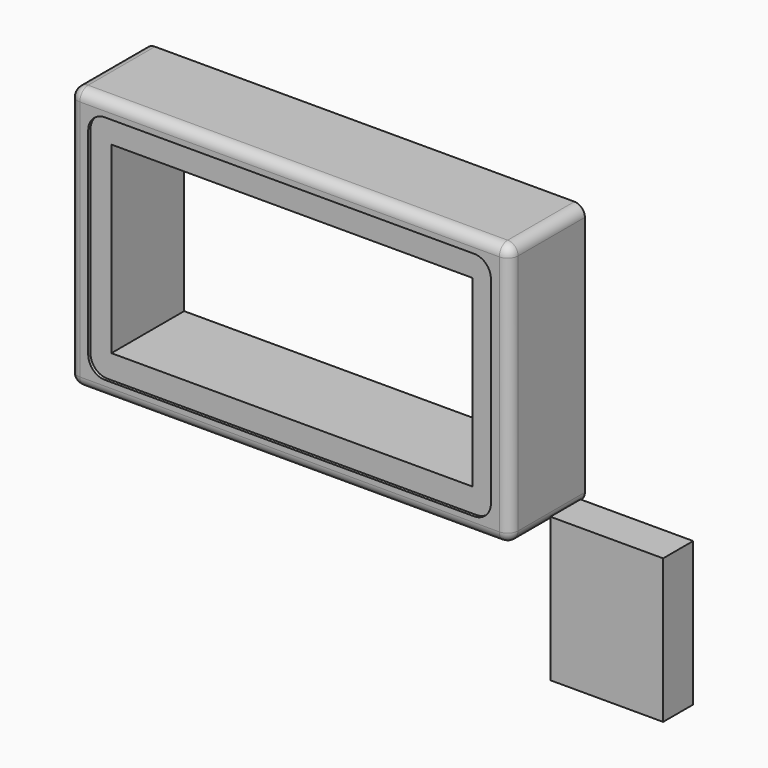
from build123d import *

# Parameters (mm, degrees)
F0_W     = 211
F0_H     = 126
F0_W_2   = 173
F0_H_2   = 88
F1_DEPTH = 45
F2_DEPTH = 1.4
F3_R     = 5
F4_W     = 54
F4_H     = 69
F5_DEPTH = 18


with BuildPart() as f1:
    # F0 (on Front) → F1 (new body)
    with BuildSketch(Plane.XZ):
        with Locations((50.718681, 37.646487)):
            Rectangle(F0_W, F0_H)
        with BuildLine():
            ThreePointArc((-45.761319, 85.026487), (-43.418173, 90.683341), (-37.761319, 93.026487))
            Line((-37.761319, 93.026487), (139.198681, 93.026487))
            ThreePointArc((139.198681, 93.026487), (144.855535, 90.683341), (147.198681, 85.026487))
            Line((147.198681, 85.026487), (147.198681, -9.733513))
            ThreePointArc((147.198681, -9.733513), (144.855535, -15.390367), (139.198681, -17.733513))
            Line((139.198681, -17.733513), (-37.761319, -17.733513))
            ThreePointArc((-37.761319, -17.733513), (-43.418173, -15.390367), (-45.761319, -9.733513))
            Line((-45.761319, -9.733513), (-45.761319, 85.026487))
        make_face(mode=Mode.SUBTRACT)
        with BuildLine():
            Line((139.198681, 93.026487), (-37.761319, 93.026487))
            ThreePointArc((-37.761319, 93.026487), (-43.418173, 90.683341), (-45.761319, 85.026487))
            Line((-45.761319, 85.026487), (-45.761319, -9.733513))
            ThreePointArc((-45.761319, -9.733513), (-43.418173, -15.390367), (-37.761319, -17.733513))
            Line((-37.761319, -17.733513), (139.198681, -17.733513))
            ThreePointArc((139.198681, -17.733513), (144.855535, -15.390367), (147.198681, -9.733513))
            Line((147.198681, -9.733513), (147.198681, 85.026487))
            ThreePointArc((147.198681, 85.026487), (144.855535, 90.683341), (139.198681, 93.026487))
        make_face()
        with Locations((50.718681, 37.646487)):
            Rectangle(F0_W_2, F0_H_2, mode=Mode.SUBTRACT)
    extrude(amount=-F1_DEPTH)

    # F0 (on Front) → F2 (cut)
    with BuildSketch(Plane.XZ):
        with BuildLine():
            Line((139.198681, 93.026487), (-37.761319, 93.026487))
            ThreePointArc((-37.761319, 93.026487), (-43.418173, 90.683341), (-45.761319, 85.026487))
            Line((-45.761319, 85.026487), (-45.761319, -9.733513))
            ThreePointArc((-45.761319, -9.733513), (-43.418173, -15.390367), (-37.761319, -17.733513))
            Line((-37.761319, -17.733513), (139.198681, -17.733513))
            ThreePointArc((139.198681, -17.733513), (144.855535, -15.390367), (147.198681, -9.733513))
            Line((147.198681, -9.733513), (147.198681, 85.026487))
            ThreePointArc((147.198681, 85.026487), (144.855535, 90.683341), (139.198681, 93.026487))
        make_face()
        with Locations((50.718681, 37.646487)):
            Rectangle(F0_W_2, F0_H_2, mode=Mode.SUBTRACT)
    extrude(amount=-F2_DEPTH, mode=Mode.SUBTRACT)

    # F3
    f3_edges = [f1.edges().sort_by_distance(p)[0] for p in [
        (50.718681, 0, -25.353513),
        (156.218681, 0, 37.646487),
        (156.218681, 22.5, -25.353513),
        (-54.781319, 22.5, -25.353513),
        (-54.781319, 0, 37.646487),
        (50.718681, 0, 100.646487),
        (156.218681, 22.5, 100.646487),
        (-54.781319, 22.5, 100.646487),
    ]]
    fillet(f3_edges, radius=F3_R)


with BuildPart() as f5:
    # F4 (on Front) → F5 (new body)
    with BuildSketch(Plane.XZ):
        with Locations((217.112735, -28.509299)):
            Rectangle(F4_W, F4_H)
    extrude(amount=F5_DEPTH)


solid = Compound([f1.part, f5.part])
